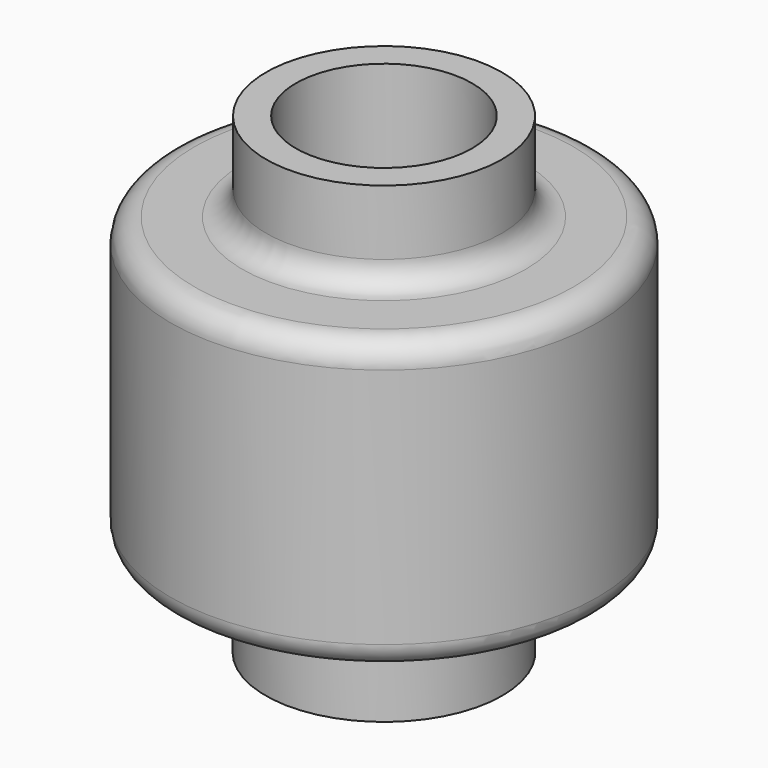
from build123d import *

# Parameters (mm, degrees)
F0_R       = 45.4520962522
F1_DEPTH   = 61.59209
F2_R       = 25.1143263765
F1_FACE1_R = 45.4520962522
F3_DEPTH   = 18.93017
F4_R       = 25.1788729995
F5_DEPTH   = 19.9562
F6_R       = 5.08
F7_R       = 18.7687787906
F8_DEPTH   = 284.89901


with BuildPart() as f1:
    # F0 (on Top) → F1 (new body)
    with BuildSketch(Plane.XY):
        Circle(F0_R)
    extrude(amount=F1_DEPTH)

    # F2 (on face) + F1_face1 (on face) → F3 (join)
    with BuildSketch(Plane.XY.offset(61.59209)):
        Circle(F2_R)
    with BuildSketch(Plane(origin=(0, 0, 0), x_dir=(1, 0, 0), z_dir=(0, 0, -1))):
        Circle(F1_FACE1_R)
    extrude(amount=F3_DEPTH, dir=(0, 0, 1))

    # F4 (on face) → F5 (join)
    with BuildSketch(Plane(origin=(0, 0, 0), x_dir=(1, 0, 0), z_dir=(0, 0, -1))):
        Circle(F4_R)
    extrude(amount=F5_DEPTH)

    # F6
    f6_edges = [f1.edges().sort_by_distance(p)[0] for p in [
        (-45.452096, 0, 0),
        (45.452096, 0, 30.796045),
        (-45.452096, 0, 61.59209),
        (-25.114326, 0, 61.59209),
        (-25.178873, 0, 0),
    ]]
    fillet(f6_edges, radius=F6_R)

    # F7 (on face) → F8 (cut)
    with BuildSketch(Plane.XY.offset(80.52226)):
        Circle(F7_R)
    extrude(amount=-F8_DEPTH, mode=Mode.SUBTRACT)


solid = f1.part
